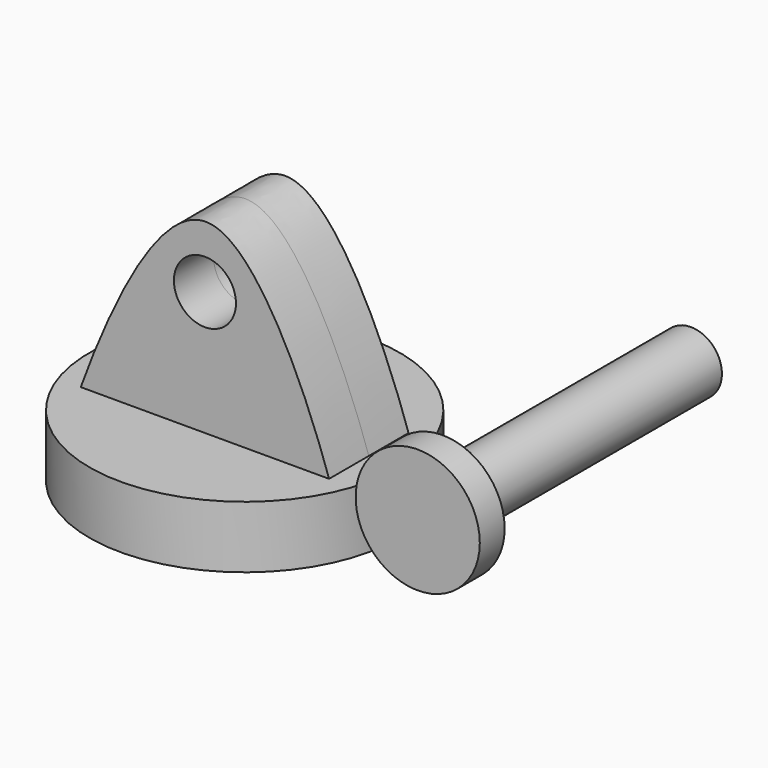
from build123d import *

# Parameters (mm, degrees)
F0_R     = 25
F1_DEPTH = 40
F2_R     = 125
F3_DEPTH = 50
F4_R     = 25
F5_DEPTH = 125
F6_R     = 50
F7_DEPTH = 25


with BuildPart() as f1:
    # F0 (on Front) → F1 (new body, symmetric)
    with BuildSketch(Plane.XZ):
        with BuildLine():
            add(Edge.make_bspline(
                [(-100, 0), (-85, 41.621112), (0, 256.524127), (85, 45.330634), (100, 0)],
                knots=[0, 0, 0, 0, 180.277564, 360.555128, 360.555128, 360.555128, 360.555128], degree=3))
            Line((-100, 0), (100, 0))
        make_face()
        with Locations((0, 100)):
            Circle(F0_R, mode=Mode.SUBTRACT)
    extrude(amount=F1_DEPTH, both=True)

    # F2 (on face) → F3 (join)
    with BuildSketch(Plane(origin=(0, 0, 0), x_dir=(1, 0, 0), z_dir=(0, 0, -1))):
        Circle(F2_R)
        Polygon((100, 0), (100, -40), (-100, -40), (-100, 0), (-100, 40), (100, 40), align=None, mode=Mode.SUBTRACT)
        Polygon((-100, -40), (100, -40), (100, 0), (100, 40), (-100, 40), (-100, 0), align=None)
    extrude(amount=F3_DEPTH)


with BuildPart() as f5:
    # F4 (on Front) → F5 (new body, symmetric)
    with BuildSketch(Plane.XZ):
        with Locations((259.392381, 67.400299)):
            Circle(F4_R)
    extrude(amount=F5_DEPTH, both=True)

    # F6 (on face) → F7 (join)
    with BuildSketch(Plane.XZ.offset(125)):
        with Locations((259.392381, 67.400299)):
            Circle(F6_R)
    extrude(amount=F7_DEPTH)


solid = Compound([f1.part, f5.part])
